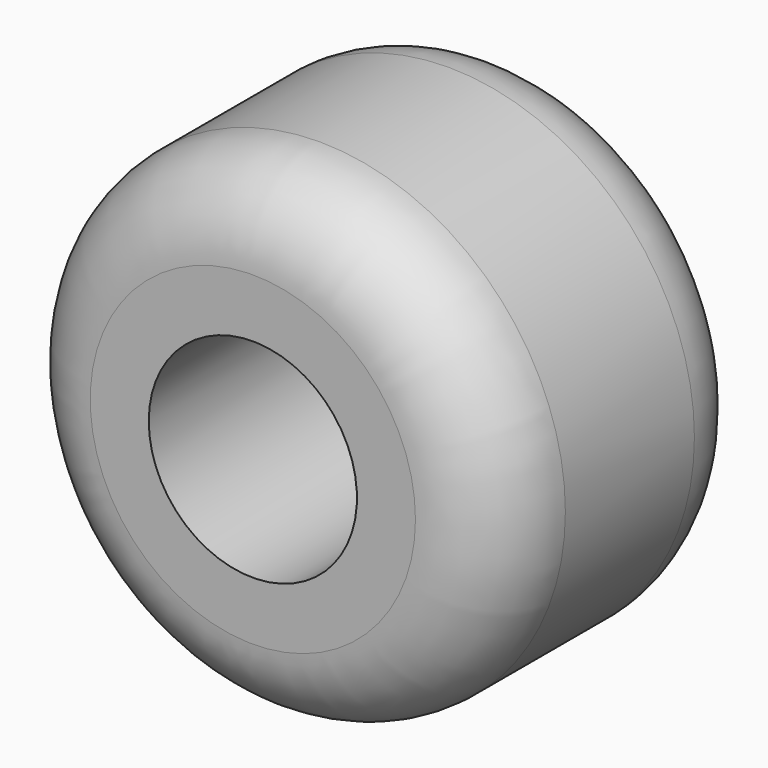
from build123d import *

# Parameters (mm, degrees)
F0_R     = 15
F1_DEPTH = 20
F2_R     = 5.08
F3_R     = 5.08
F5_D     = 12.7


with BuildPart() as f1:
    # F0 (on Front) → F1 (new body)
    with BuildSketch(Plane.XZ):
        Circle(F0_R)
    extrude(amount=F1_DEPTH)

    # F2
    f2_edges = [f1.edges().sort_by_distance(p)[0] for p in [
        (-15, -20, 0),
    ]]
    fillet(f2_edges, radius=F2_R)

    # F3
    f3_edges = [f1.edges().sort_by_distance(p)[0] for p in [
        (15, -7.46, 0),
        (-15, -14.92, 0),
        (-15, 0, 0),
    ]]
    fillet(f3_edges, radius=F3_R)

    # F5 (through all)
    with Locations(Plane(origin=(0, 0, 0), x_dir=(1, 0, 0), z_dir=(0, 1, 0))):
        with Locations((0, 0)):
            Hole(F5_D / 2)


solid = f1.part
